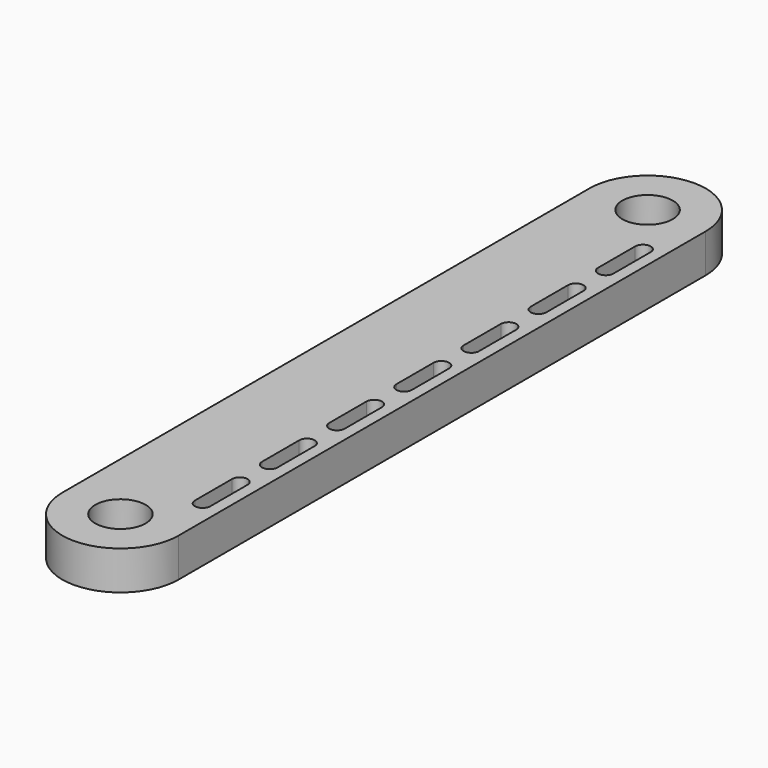
from build123d import *

# Parameters (mm, degrees)
SKETCH_R            = 6.5
PAD_DEPTH           = 10
POCKET_DEPTH        = 12
LINEARPATTERN_COUNT = 7
LINEARPATTERN_PITCH = 21.666667


with BuildPart() as part:
    # Sketch → Pad (new body)
    with BuildSketch(Plane.XY):
        with BuildLine():
            ThreePointArc((-15, 0), (0, -15), (15, 0))
            Line((15, 0), (15, 170))
            ThreePointArc((15, 170), (0, 185), (-15, 170))
            Line((-15, 170), (-15, 0))
        make_face()
        Circle(SKETCH_R, mode=Mode.SUBTRACT)
        with Locations((0, 170)):
            Circle(SKETCH_R, mode=Mode.SUBTRACT)
    extrude(amount=PAD_DEPTH)

    # Sketch001 (on Face8 of Pad) → Pocket (cut)
    with BuildSketch(Plane.XY.offset(10)):
        with BuildLine():
            ThreePointArc((12, 26), (10, 28), (8, 26))
            Line((8, 26), (8, 14))
            ThreePointArc((8, 14), (10, 12), (12, 14))
            Line((12, 14), (12, 26))
        make_face()
    pocket = extrude(amount=-POCKET_DEPTH, mode=Mode.SUBTRACT)

    # LinearPattern: Pocket ×7
    with Locations(*[(0, i * LINEARPATTERN_PITCH, 0) for i in range(1, LINEARPATTERN_COUNT)]):
        add(pocket, mode=Mode.SUBTRACT)


solid = part.part
